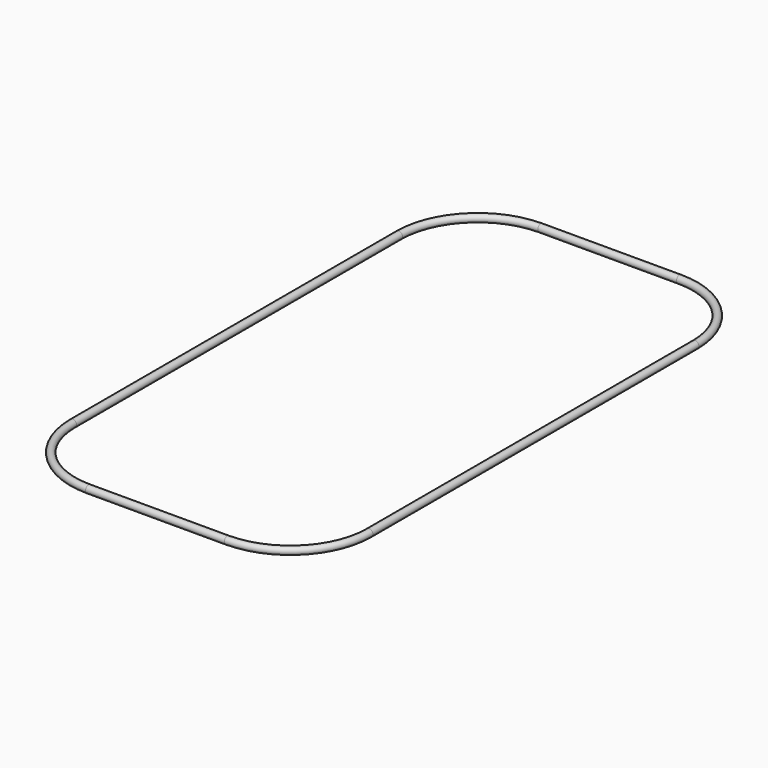
from build123d import *

# Parameters (mm, degrees)
F2_R = 0.35


with BuildPart() as f3:
    # F3: sweep along a path in F0
    with BuildLine(Plane.XY) as f3_path:
        Line((6.55193, 26.69883), (-6.55193, 26.69883))
        ThreePointArc((-6.55193, 26.69883), (-11.8176834888, 24.5176834888), (-13.99883, 19.25193))
        Line((-13.99883, 19.25193), (-13.99883, -19.25193))
        ThreePointArc((-13.99883, -19.25193), (-11.8176834888, -24.5176834888), (-6.55193, -26.69883))
        Line((-6.55193, -26.69883), (6.55193, -26.69883))
        ThreePointArc((6.55193, -26.69883), (11.8176834888, -24.5176834888), (13.99883, -19.25193))
        Line((13.99883, -19.25193), (13.99883, 19.25193))
        ThreePointArc((13.99883, 19.25193), (11.8176834888, 24.5176834888), (6.55193, 26.69883))
    # F2 (on plane+point) → F3 (sweep)
    with BuildSketch(Plane.XZ.offset(19.25193)):
        with Locations((-13.99883, 0)):
            Circle(F2_R)
    sweep(path=f3_path.line)


solid = f3.part
